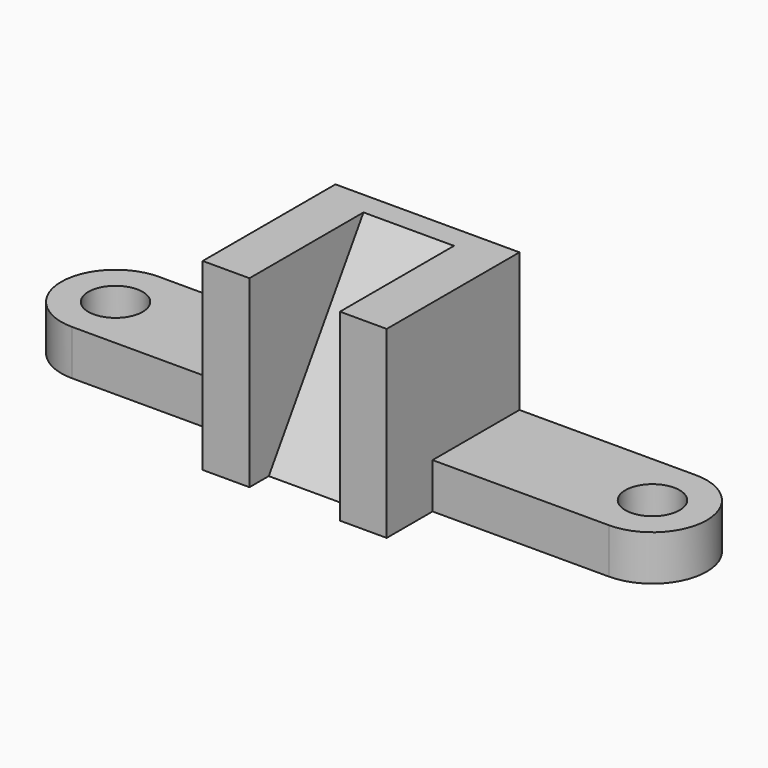
from build123d import *

# Parameters (mm, degrees)
F1_DEPTH = 61
F0_R     = 9
F2_DEPTH = 15
F4_DEPTH = 30


with BuildPart() as f1:
    # F0 (on Top) → F1 (new body)
    with BuildSketch(Plane.XY):
        Polygon((30.5, 30.649616), (-30.5, 30.649616), (-30.5, -5.350384), (-30.5, -24.350384), (-15, -24.350384), (-15, -16.350384), (-15, 22.899616), (0, 22.899616), (15, 22.899616), (15, -16.350384), (15, -24.350384), (30.5, -24.350384), (30.5, -5.350384), align=None)
    extrude(amount=F1_DEPTH)

    # F0 (on Top) → F2 (join)
    with BuildSketch(Plane.XY):
        with BuildLine():
            Line((89, 30.649616), (30.5, 30.649616))
            Line((30.5, 30.649616), (30.5, -5.350384))
            Line((30.5, -5.350384), (89, -5.350384))
            ThreePointArc((89, -5.350384), (107, 12.649616), (89, 30.649616))
        make_face()
        with Locations((89, 12.649616)):
            Circle(F0_R, mode=Mode.SUBTRACT)
        with BuildLine():
            Line((-30.5, -5.350384), (-30.5, 30.649616))
            Line((-30.5, 30.649616), (-89, 30.649616))
            ThreePointArc((-89, 30.649616), (-107, 12.649616), (-89, -5.350384))
            Line((-89, -5.350384), (-30.5, -5.350384))
        make_face()
        with Locations((-89, 12.649616)):
            Circle(F0_R, mode=Mode.SUBTRACT)
    extrude(amount=F2_DEPTH)

    # F3 (on face) → F4 (join)
    with BuildSketch(Plane.YZ.offset(-15)):
        Polygon((22.899616, 0), (22.899616, 61), (-16.350384, 0), align=None)
    extrude(amount=F4_DEPTH)


solid = f1.part
